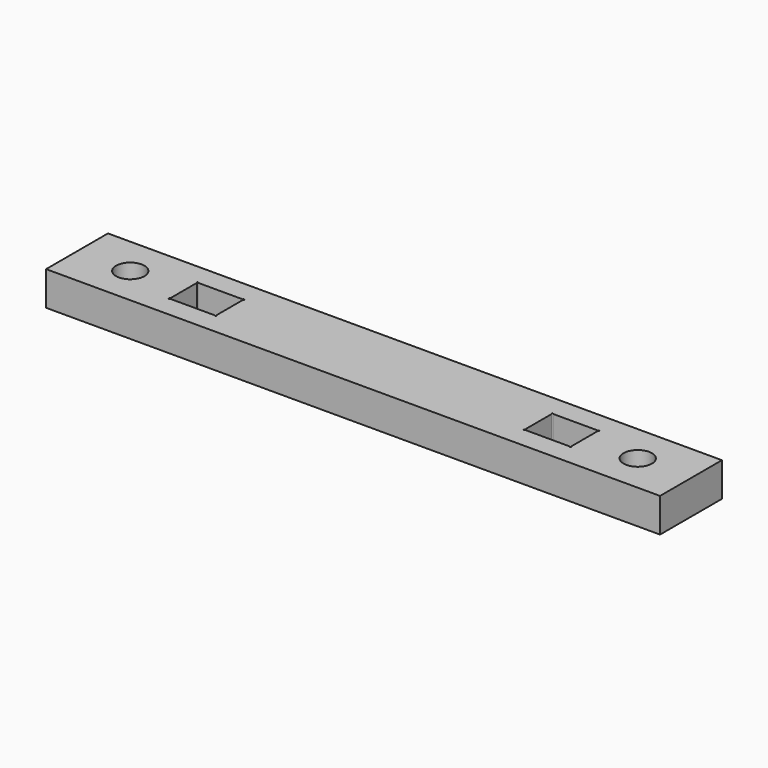
from build123d import *

# Parameters (mm, degrees)
F1_R     = 2
F2_DEPTH = 4.8


with BuildPart() as f2:
    # F1 (on Top) → F2 (new body)
    with BuildSketch(Plane.XY):
        Polygon((-43.25, 5.45), (-43.25, 0), (-43.25, -5.45), (0, -5.45), (43.25, -5.45), (43.25, 0), (43.25, 5.45), (0, 5.45), align=None)
        with Locations((-35.75, 0)):
            Circle(F1_R, mode=Mode.SUBTRACT)
        with BuildLine():
            Line((-21.75, 2.35), (-21.75, -2.35))
            ThreePointArc((-21.75, -2.35), (-21.6792893219, -2.3792893219), (-21.65, -2.45))
            ThreePointArc((-21.65, -2.45), (-21.75, -2.55), (-21.85, -2.45))
            Line((-21.85, -2.45), (-28.15, -2.45))
            ThreePointArc((-28.15, -2.45), (-28.3207106781, -2.5207106781), (-28.25, -2.35))
            Line((-28.25, -2.35), (-28.25, 2.35))
            ThreePointArc((-28.25, 2.35), (-28.3207106781, 2.5207106781), (-28.15, 2.45))
            Line((-28.15, 2.45), (-21.85, 2.45))
            ThreePointArc((-21.85, 2.45), (-21.75, 2.55), (-21.65, 2.45))
            ThreePointArc((-21.65, 2.45), (-21.6792893219, 2.3792893219), (-21.75, 2.35))
        make_face(mode=Mode.SUBTRACT)
        with BuildLine():
            Line((28.15, -2.45), (21.85, -2.45))
            ThreePointArc((21.85, -2.45), (21.6792893219, -2.5207106781), (21.75, -2.35))
            Line((21.75, -2.35), (21.75, 2.35))
            ThreePointArc((21.75, 2.35), (21.6792893219, 2.5207106781), (21.85, 2.45))
            Line((21.85, 2.45), (28.15, 2.45))
            ThreePointArc((28.15, 2.45), (28.25, 2.55), (28.35, 2.45))
            ThreePointArc((28.35, 2.45), (28.3207106781, 2.3792893219), (28.25, 2.35))
            Line((28.25, 2.35), (28.25, -2.35))
            ThreePointArc((28.25, -2.35), (28.3207106781, -2.3792893219), (28.35, -2.45))
            ThreePointArc((28.35, -2.45), (28.25, -2.55), (28.15, -2.45))
        make_face(mode=Mode.SUBTRACT)
        with Locations((35.75, 0)):
            Circle(F1_R, mode=Mode.SUBTRACT)
    extrude(amount=F2_DEPTH)


solid = f2.part
